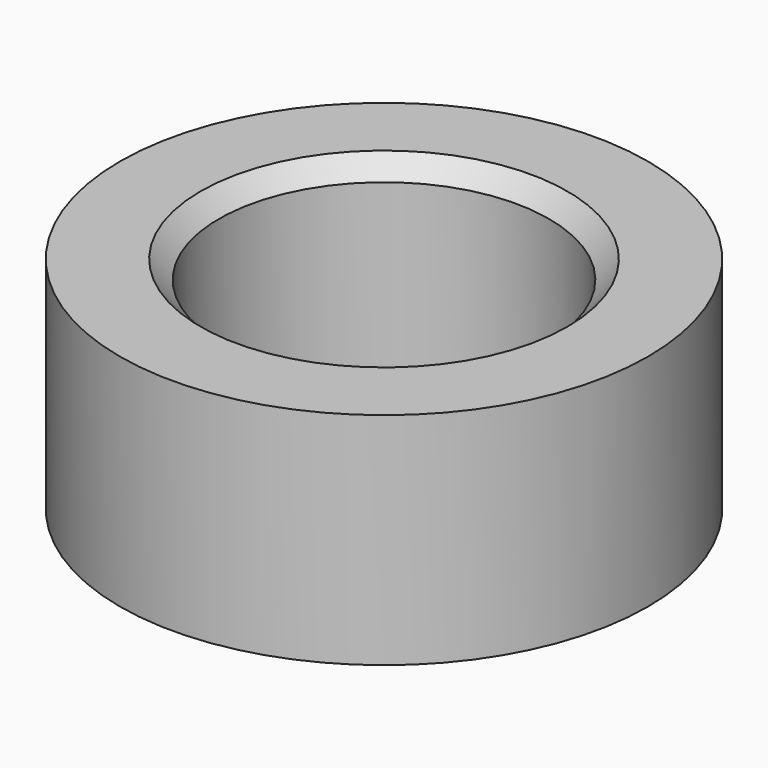
from build123d import *

# Parameters (mm, degrees)
F0_R     = 7.2
F1_DEPTH = 6
F2_R     = 4.5
F3_DEPTH = 25
F4_SIZE2 = 0.5
F4_SIZE  = 0.5


with BuildPart() as f1:
    # F0 (on Top) → F1 (new body)
    with BuildSketch(Plane.XY):
        Circle(F0_R)
    extrude(amount=F1_DEPTH)

    # F2 (on face) → F3 (cut)
    with BuildSketch(Plane.XY.offset(6)):
        Circle(F2_R)
    extrude(amount=-F3_DEPTH, mode=Mode.SUBTRACT)

    # F4
    f4_edges = [f1.edges().sort_by_distance(p)[0] for p in [
        (-4.5, 0, 6),
        (-4.5, 0, 0),
    ]]
    chamfer(f4_edges, length=F4_SIZE, length2=F4_SIZE2)


solid = f1.part
